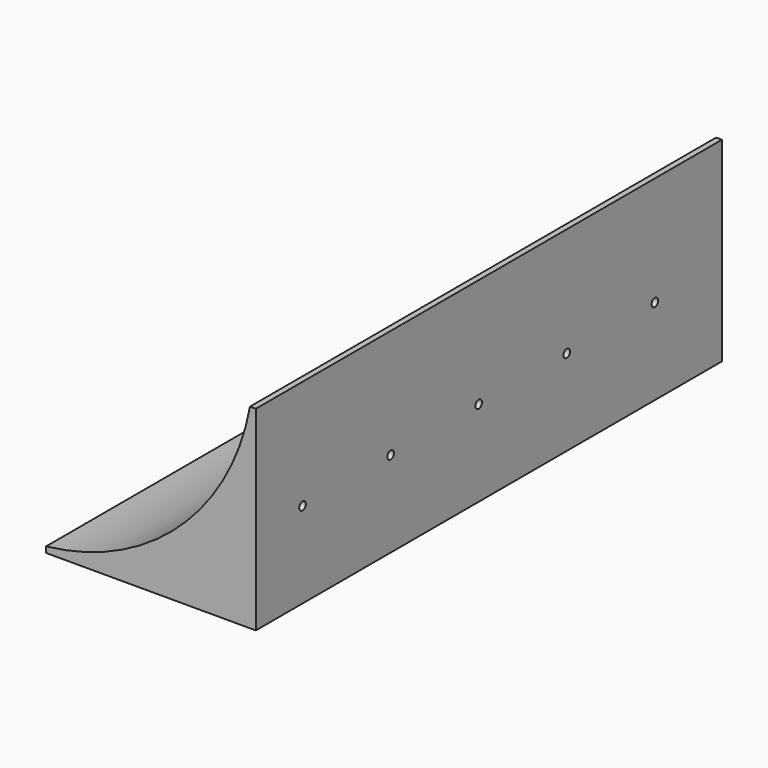
from build123d import *

# Parameters (mm, degrees)
F1_DEPTH = 254
F3_D     = 3.5814
F3_DEPTH = 19.05
F3_TIP   = 1.0759611105
F4_DEPTH = 10.16
F5_DEPTH = 10.16


with BuildPart() as f1:
    # F0 (on Front) → F1 (new body)
    with BuildSketch(Plane.XZ):
        Polygon((49.1248931152, -56.7675527828), (-39.7751068848, -57.0361235134), (48.4362465841, -57.0361235134), (49.1248931152, -57.0361235134), align=None)
        with BuildLine():
            ThreePointArc((49.1248931152, 25.5138764866), (18.3482789064, -30.4863082116), (-39.7751068848, -57.0361235134))
            Line((-39.7751068848, -57.0361235134), (49.1248931152, -56.7675527828))
            Line((49.1248931152, -56.7675527828), (49.1248931152, 25.5138764866))
        make_face()
        Polygon((48.4362465841, -57.0361235134), (-39.7751068848, -57.0361235134), (-39.7751068848, -69.7361235134), (61.8248931152, -69.7361235134), (61.8248931152, -57.0361235134), (55.4748931152, -57.0361235134), (49.1248931152, -57.0361235134), align=None)
        Polygon((49.1248931152, 25.5138764866), (49.1248931152, -56.7675527828), (49.1248931152, -57.0361235134), (55.4748931152, -57.0361235134), (61.8248931152, -57.0361235134), (61.8248931152, 25.5138764866), align=None)
    extrude(amount=F1_DEPTH)

    # F3
    with Locations(Plane.YZ.offset(61.8248931152)):
        with Locations((-228.5564392805, -22.1111235134), (-180.5504392805, -22.1111235134), (-132.5444392805, -22.1111235134), (-84.5384392805, -22.1111235134), (-36.5324392805, -22.1111235134)):
            Hole(F3_D / 2, depth=F3_DEPTH)
            with Locations((0, 0, -(F3_DEPTH + F3_TIP / 2))):  # 118° drill point
                Cone(0, F3_D / 2, F3_TIP, mode=Mode.SUBTRACT)

    # F4 (cut): a face of the model
    f4_faces = [f1.faces().sort_by_distance(p)[0] for p in [
        (61.8248931152, -126.9884327642, -22.1111235134),
    ]]
    extrude(f4_faces, amount=-F4_DEPTH, mode=Mode.SUBTRACT)

    # F5 (cut): a face of the model
    f5_faces = [f1.faces().sort_by_distance(p)[0] for p in [
        (5.9448931152, -127, -69.7361235134),
    ]]
    extrude(f5_faces, amount=-F5_DEPTH, mode=Mode.SUBTRACT)


solid = f1.part
